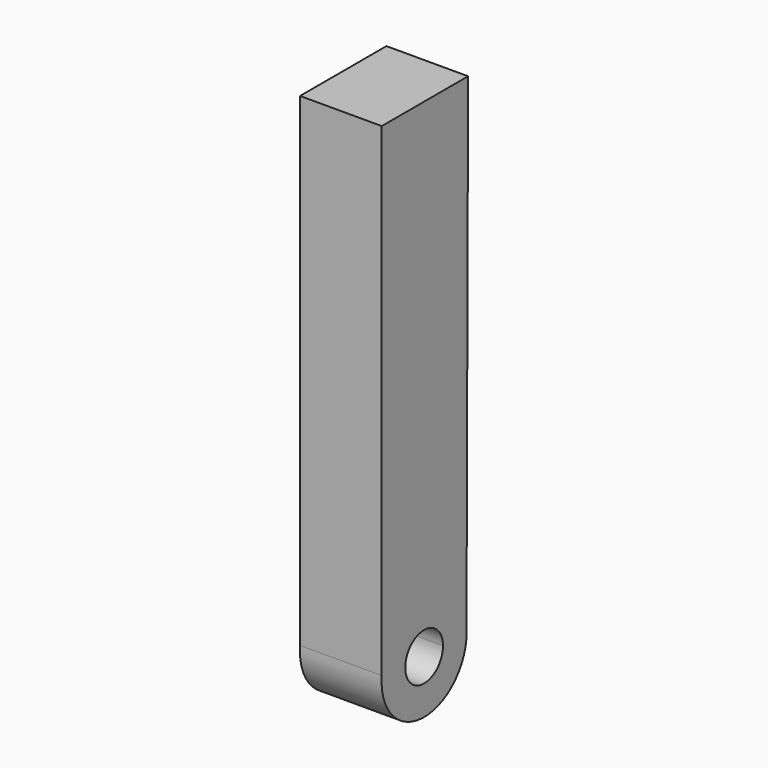
from build123d import *

# Parameters (mm, degrees)
F1_DEPTH = 25.4


with BuildPart() as f1:
    # F0 (on Right) → F1 (new body)
    with BuildSketch(Plane.YZ):
        with BuildLine():
            ThreePointArc((-32.9688712955, -74.7904999055), (-16.4519134228, -59.7619169827), (0.0058700323, -74.8552786289))
            Line((0.0058700323, -74.8552786289), (0.610534451, 75.7063031197))
            Line((0.610534451, 75.7063031197), (-32.9688712955, 75.7063031197))
            Line((-32.9688712955, 75.7063031197), (-32.9688712955, -74.7904999055))
        make_face()
        with BuildLine():
            Line((-9.1503931598, -76.3168334961), (3.395e-07, -76.3168334961))
            Line((3.395e-07, -76.3168334961), (0.0058700323, -74.8552786289))
            ThreePointArc((0.0058700323, -74.8552786289), (-16.4519134228, -59.7619169827), (-32.9688712955, -74.7904999055))
            Line((-32.9688712955, -74.7904999055), (-32.9688712955, -76.3168334961))
            Line((-32.9688712955, -76.3168334961), (-23.8184777961, -76.3168334961))
            ThreePointArc((-23.8184777961, -76.3168334961), (-16.484435478, -68.982791178), (-9.1503931598, -76.3168334961))
        make_face()
        with BuildLine():
            Line((0.0058700323, -74.8552786289), (3.395e-07, -76.3168334961))
            Line((3.395e-07, -76.3168334961), (-9.1503931598, -76.3168334961))
            ThreePointArc((-9.1503931598, -76.3168334961), (-16.484435478, -83.6508758142), (-23.8184777961, -76.3168334961))
            Line((-23.8184777961, -76.3168334961), (-32.9688712955, -76.3168334961))
            Line((-32.9688712955, -76.3168334961), (-32.9688712955, -74.7904999055))
            ThreePointArc((-32.9688712955, -74.7904999055), (-17.2484162143, -92.8541443986), (0.0705129802, -76.3168334961))
            ThreePointArc((0.0705129802, -76.3168334961), (0.0543443475, -75.5853416403), (0.0058700323, -74.8552786289))
        make_face()
    extrude(amount=F1_DEPTH)


solid = f1.part
